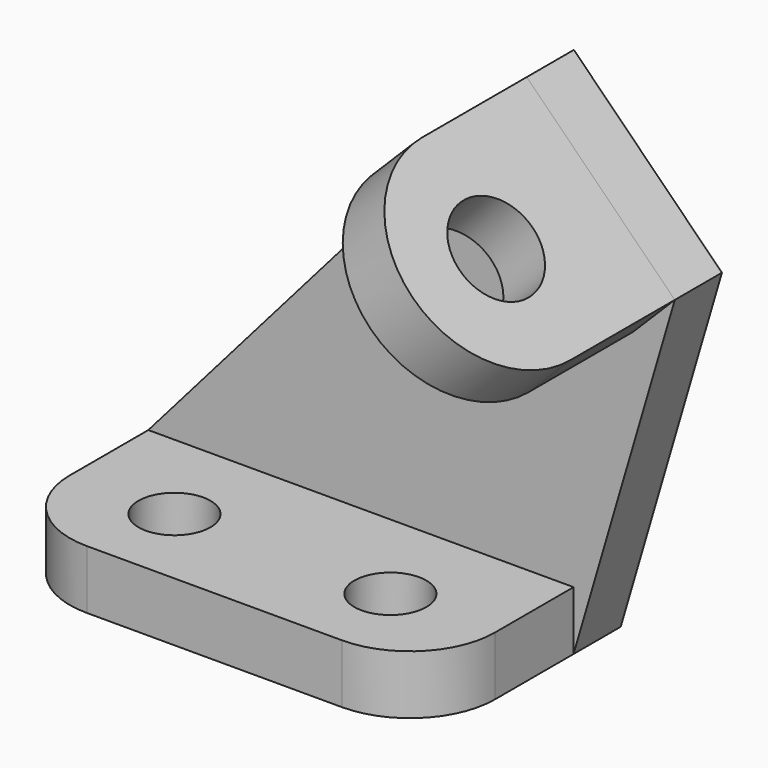
from build123d import *

# Parameters (mm, degrees)
F0_R     = 5.5
F1_DEPTH = 9
F3_DEPTH = 9
F4_R     = 7
F5_DEPTH = 9


with BuildPart() as f1:
    # F0 (on Top) → F1 (new body)
    with BuildSketch(Plane.XY):
        with BuildLine():
            Line((65, 24), (0, 24))
            Line((0, 24), (0, 0))
            ThreePointArc((0, 0), (3.807612, -9.192388), (13, -13))
            Line((13, -13), (52, -13))
            ThreePointArc((52, -13), (61.192388, -9.192388), (65, 0))
            Line((65, 0), (65, 24))
        make_face()
        with Locations((16, 0)):
            Circle(F0_R, mode=Mode.SUBTRACT)
        with Locations((49, 0)):
            Circle(F0_R, mode=Mode.SUBTRACT)
    extrude(amount=F1_DEPTH)

    # F2 (on face) → F3 (join)
    with BuildSketch(Plane(origin=(0, 24, 0), x_dir=(-1, 0, 0), z_dir=(0, 1, 0))):
        Polygon((-65, 9), (0, 9), (-57.848873, 75.313708), (-80.47629, 52.686292), (-65, 0), align=None)
    extrude(amount=-F3_DEPTH)

    # F4 (on face) → F5 (join)
    with BuildSketch(Plane(origin=(66.581291, 0, 66.581291), x_dir=(0.707107, 0, -0.707107), z_dir=(0.707107, 0, 0.707107))):
        with BuildLine():
            Line((19.650496, 15), (-12.349504, 15))
            Line((-12.349504, 15), (-12.349504, -5))
            ThreePointArc((-12.349504, -5), (3.650496, -21), (19.650496, -5))
            Line((19.650496, -5), (19.650496, 15))
        make_face()
        with Locations((3.650496, -5)):
            Circle(F4_R, mode=Mode.SUBTRACT)
    extrude(amount=-F5_DEPTH)


solid = f1.part
